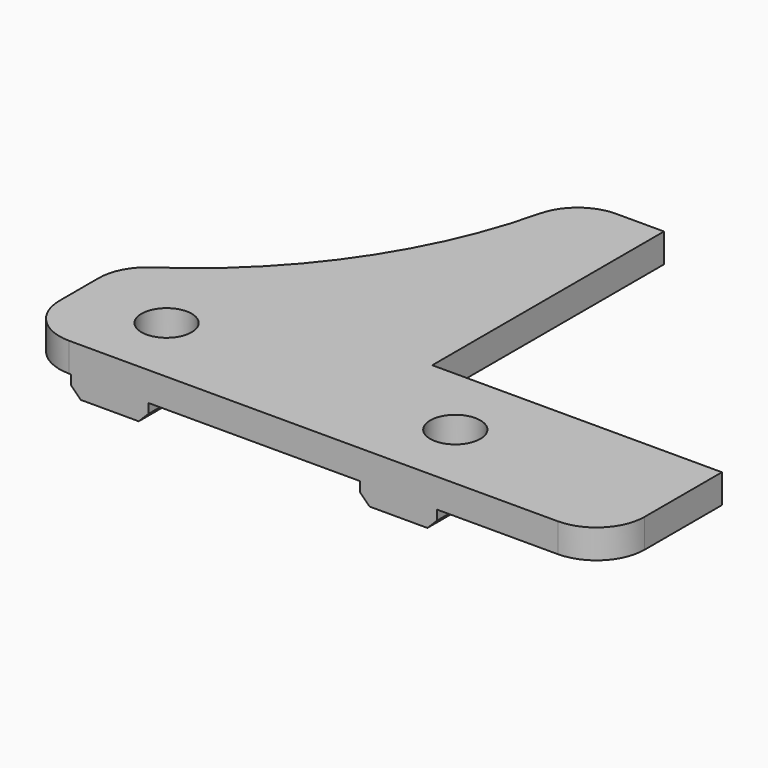
from build123d import *

# Parameters (mm, degrees)
F0_R     = 2.6
F1_DEPTH = 3
F2_R     = 5
F3_R     = 2.6
F3_W     = 8
F3_H     = 15
F4_DEPTH = 2
F5_SIZE  = 1


with BuildPart() as f1:
    # F0 (on Top) → F1 (new body)
    with BuildSketch(Plane.XY):
        with BuildLine():
            Line((30, 0), (0, 0))
            Line((0, 0), (0, 30))
            Line((0, 30), (-9.065466, 30))
            ThreePointArc((-9.065466, 30), (-16.222051, 11.49184), (-30.6, -2.184537))
            Line((-30.6, -2.184537), (-30.6, -15))
            Line((-30.6, -15), (30, -15))
            Line((30, -15), (30, 0))
        make_face()
        with Locations((-21.4, -7.643007)):
            Circle(F0_R, mode=Mode.SUBTRACT)
        with Locations((8.5, -7.643007)):
            Circle(F0_R, mode=Mode.SUBTRACT)
    extrude(amount=F1_DEPTH)

    # F2
    f2_edges = [f1.edges().sort_by_distance(p)[0] for p in [
        (-30.6, -15, 1.5),
        (-30.6, -2.184537, 1.5),
        (30, -15, 1.5),
        (-9.065466, 30, 1.5),
    ]]
    fillet(f2_edges, radius=F2_R)

    # F3 (on face) → F4 (join)
    with BuildSketch(Plane.XY):
        with BuildLine():
            Line((-25.4, 1.447635), (-25.4, -15))
            Line((-25.4, -15), (-17.4, -15))
            Line((-17.4, -15), (-17.4, 9.814667))
            ThreePointArc((-17.4, 9.814667), (-21.131748, 5.374666), (-25.4, 1.447635))
        make_face()
        with Locations((-21.4, -7.643007)):
            Circle(F3_R, mode=Mode.SUBTRACT)
        with Locations((8.5, -7.5)):
            Rectangle(F3_W, F3_H)
        with Locations((8.5, -7.643007)):
            Circle(F3_R, mode=Mode.SUBTRACT)
    extrude(amount=-F4_DEPTH)

    # F5
    f5_edges = [f1.edges().sort_by_distance(p)[0] for p in [
        (-25.4, -6.776183, -2),
        (-17.4, -2.592667, -2),
        (4.5, -7.5, -2),
        (12.5, -7.5, -2),
    ]]
    chamfer(f5_edges, length=F5_SIZE)


solid = f1.part
